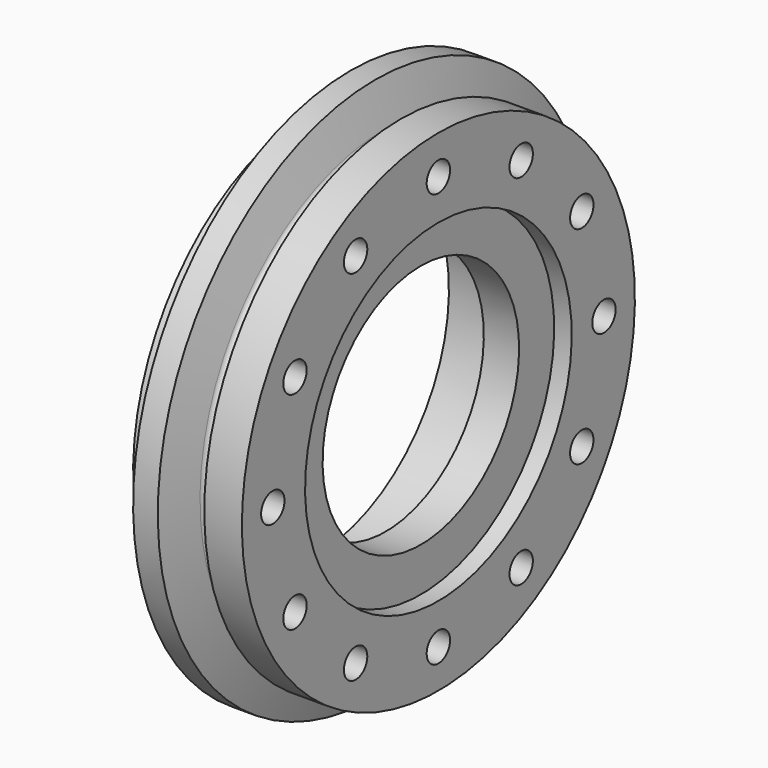
from build123d import *

# Parameters (mm, degrees)
F4_R     = 2.5
F5_DEPTH = 25


with BuildPart() as f1:
    # F0 (on Front) → F1 (revolve)
    with BuildSketch(Plane.XZ):
        with BuildLine():
            Line((0, 39), (0, 0))
            Line((0, 0), (21, 0))
            Line((21, 0), (21, 42))
            Line((21, 42), (14.571175, 42))
            Line((14.571175, 42), (13.965926, 39.741181))
            ThreePointArc((13.965926, 39.741181), (13, 39), (12.034074, 39.741181))
            Line((12.034074, 39.741181), (10.223054, 46.5))
            Line((10.223054, 46.5), (6, 46.5))
            Line((6, 46.5), (3.990381, 39))
            Line((3.990381, 39), (0, 39))
        make_face()
    revolve(axis=Axis((10.5, 0, 0), (-1, 0, 0)))

    # F2 (on Front) → F3 (revolve, cut)
    with BuildSketch(Plane.XZ):
        Polygon((0, 28.5), (0, 0), (24, 0), (24, 28.5), (18, 28.5), (18, 21), (11.96849, 21), (9.238713, 28.5), align=None)
    revolve(axis=Axis((12, 0, 0), (-1, 0, 0)), mode=Mode.SUBTRACT)

    # F4 (on Right) → F5 (cut)
    with BuildSketch(Plane.YZ):
        with Locations((-35.390936, 0)):
            Circle(F4_R)
        with Locations((-30.649449, -17.695468)):
            Circle(F4_R)
        with Locations((-17.695468, -30.649449)):
            Circle(F4_R)
        with Locations((0, -35.390936)):
            Circle(F4_R)
        with Locations((17.695468, -30.649449)):
            Circle(F4_R)
        with Locations((30.649449, -17.695468)):
            Circle(F4_R)
        with Locations((35.390936, 0)):
            Circle(F4_R)
        with Locations((30.649449, 17.695468)):
            Circle(F4_R)
        with Locations((17.695468, 30.649449)):
            Circle(F4_R)
        with Locations((0, 35.390936)):
            Circle(F4_R)
        with Locations((-17.695468, 30.649449)):
            Circle(F4_R)
        with Locations((-30.649449, 17.695468)):
            Circle(F4_R)
    extrude(amount=F5_DEPTH, mode=Mode.SUBTRACT)


solid = f1.part
